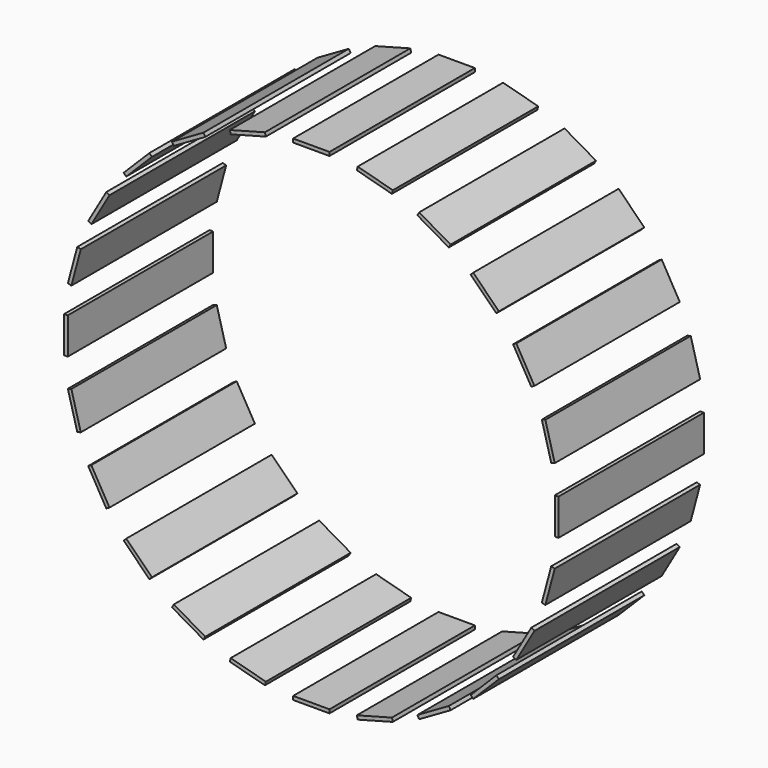
from build123d import *

# Parameters (mm, degrees)
F0_R      = 5
F1_DEPTH  = 50
F2_COUNT  = 24
F1_FACE_R = 5
F3_DEPTH  = 50


with BuildPart() as f1:
    # F0 (on Front) → F1 (new body)
    with BuildSketch(Plane.XZ):
        Polygon((-5, 67), (0, 67), (5, 67), (5, 68), (-5, 68), align=None)
        Circle(F0_R)
    extrude(amount=F1_DEPTH)


with BuildPart() as f2_1:
    # F2: instance of F1
    add(f1.part.rotate(Axis((0, 0, 0), (0, 1, 0)), 1 * 360 / F2_COUNT))


with BuildPart() as f2_2:
    # F2: instance of F1
    add(f1.part.rotate(Axis((0, 0, 0), (0, 1, 0)), 2 * 360 / F2_COUNT))


with BuildPart() as f2_3:
    # F2: instance of F1
    add(f1.part.rotate(Axis((0, 0, 0), (0, 1, 0)), 3 * 360 / F2_COUNT))


with BuildPart() as f2_4:
    # F2: instance of F1
    add(f1.part.rotate(Axis((0, 0, 0), (0, 1, 0)), 4 * 360 / F2_COUNT))


with BuildPart() as f2_5:
    # F2: instance of F1
    add(f1.part.rotate(Axis((0, 0, 0), (0, 1, 0)), 5 * 360 / F2_COUNT))


with BuildPart() as f2_6:
    # F2: instance of F1
    add(f1.part.rotate(Axis((0, 0, 0), (0, 1, 0)), 6 * 360 / F2_COUNT))


with BuildPart() as f2_7:
    # F2: instance of F1
    add(f1.part.rotate(Axis((0, 0, 0), (0, 1, 0)), 7 * 360 / F2_COUNT))


with BuildPart() as f2_8:
    # F2: instance of F1
    add(f1.part.rotate(Axis((0, 0, 0), (0, 1, 0)), 8 * 360 / F2_COUNT))


with BuildPart() as f2_9:
    # F2: instance of F1
    add(f1.part.rotate(Axis((0, 0, 0), (0, 1, 0)), 9 * 360 / F2_COUNT))


with BuildPart() as f2_10:
    # F2: instance of F1
    add(f1.part.rotate(Axis((0, 0, 0), (0, 1, 0)), 10 * 360 / F2_COUNT))


with BuildPart() as f2_11:
    # F2: instance of F1
    add(f1.part.rotate(Axis((0, 0, 0), (0, 1, 0)), 11 * 360 / F2_COUNT))


with BuildPart() as f2_12:
    # F2: instance of F1
    add(f1.part.rotate(Axis((0, 0, 0), (0, 1, 0)), 12 * 360 / F2_COUNT))


with BuildPart() as f2_13:
    # F2: instance of F1
    add(f1.part.rotate(Axis((0, 0, 0), (0, 1, 0)), 13 * 360 / F2_COUNT))


with BuildPart() as f2_14:
    # F2: instance of F1
    add(f1.part.rotate(Axis((0, 0, 0), (0, 1, 0)), 14 * 360 / F2_COUNT))


with BuildPart() as f2_15:
    # F2: instance of F1
    add(f1.part.rotate(Axis((0, 0, 0), (0, 1, 0)), 15 * 360 / F2_COUNT))


with BuildPart() as f2_16:
    # F2: instance of F1
    add(f1.part.rotate(Axis((0, 0, 0), (0, 1, 0)), 16 * 360 / F2_COUNT))


with BuildPart() as f2_17:
    # F2: instance of F1
    add(f1.part.rotate(Axis((0, 0, 0), (0, 1, 0)), 17 * 360 / F2_COUNT))


with BuildPart() as f2_18:
    # F2: instance of F1
    add(f1.part.rotate(Axis((0, 0, 0), (0, 1, 0)), 18 * 360 / F2_COUNT))


with BuildPart() as f2_19:
    # F2: instance of F1
    add(f1.part.rotate(Axis((0, 0, 0), (0, 1, 0)), 19 * 360 / F2_COUNT))


with BuildPart() as f2_20:
    # F2: instance of F1
    add(f1.part.rotate(Axis((0, 0, 0), (0, 1, 0)), 20 * 360 / F2_COUNT))


with BuildPart() as f2_21:
    # F2: instance of F1
    add(f1.part.rotate(Axis((0, 0, 0), (0, 1, 0)), 21 * 360 / F2_COUNT))


with BuildPart() as f2_22:
    # F2: instance of F1
    add(f1.part.rotate(Axis((0, 0, 0), (0, 1, 0)), 22 * 360 / F2_COUNT))


with BuildPart() as f2_23:
    # F2: instance of F1
    add(f1.part.rotate(Axis((0, 0, 0), (0, 1, 0)), 23 * 360 / F2_COUNT))


with BuildPart() as f3_tool:
    # F1_face (on face) → F3 (new body)
    with BuildSketch(Plane.XZ.offset(50)):
        Circle(F1_FACE_R)
    extrude(amount=-F3_DEPTH)


with BuildPart() as f1_1:
    add(f1.part)

    # F3: cut by f3_tool
    add(f3_tool.part, mode=Mode.SUBTRACT)


with BuildPart() as f2_1_1:
    add(f2_1.part)

    # F3: cut by f3_tool
    add(f3_tool.part, mode=Mode.SUBTRACT)


with BuildPart() as f2_2_1:
    add(f2_2.part)

    # F3: cut by f3_tool
    add(f3_tool.part, mode=Mode.SUBTRACT)


with BuildPart() as f2_3_1:
    add(f2_3.part)

    # F3: cut by f3_tool
    add(f3_tool.part, mode=Mode.SUBTRACT)


with BuildPart() as f2_4_1:
    add(f2_4.part)

    # F3: cut by f3_tool
    add(f3_tool.part, mode=Mode.SUBTRACT)


with BuildPart() as f2_5_1:
    add(f2_5.part)

    # F3: cut by f3_tool
    add(f3_tool.part, mode=Mode.SUBTRACT)


with BuildPart() as f2_6_1:
    add(f2_6.part)

    # F3: cut by f3_tool
    add(f3_tool.part, mode=Mode.SUBTRACT)


with BuildPart() as f2_7_1:
    add(f2_7.part)

    # F3: cut by f3_tool
    add(f3_tool.part, mode=Mode.SUBTRACT)


with BuildPart() as f2_8_1:
    add(f2_8.part)

    # F3: cut by f3_tool
    add(f3_tool.part, mode=Mode.SUBTRACT)


with BuildPart() as f2_9_1:
    add(f2_9.part)

    # F3: cut by f3_tool
    add(f3_tool.part, mode=Mode.SUBTRACT)


with BuildPart() as f2_10_1:
    add(f2_10.part)

    # F3: cut by f3_tool
    add(f3_tool.part, mode=Mode.SUBTRACT)


with BuildPart() as f2_11_1:
    add(f2_11.part)

    # F3: cut by f3_tool
    add(f3_tool.part, mode=Mode.SUBTRACT)


with BuildPart() as f2_12_1:
    add(f2_12.part)

    # F3: cut by f3_tool
    add(f3_tool.part, mode=Mode.SUBTRACT)


with BuildPart() as f2_13_1:
    add(f2_13.part)

    # F3: cut by f3_tool
    add(f3_tool.part, mode=Mode.SUBTRACT)


with BuildPart() as f2_14_1:
    add(f2_14.part)

    # F3: cut by f3_tool
    add(f3_tool.part, mode=Mode.SUBTRACT)


with BuildPart() as f2_15_1:
    add(f2_15.part)

    # F3: cut by f3_tool
    add(f3_tool.part, mode=Mode.SUBTRACT)


with BuildPart() as f2_16_1:
    add(f2_16.part)

    # F3: cut by f3_tool
    add(f3_tool.part, mode=Mode.SUBTRACT)


with BuildPart() as f2_17_1:
    add(f2_17.part)

    # F3: cut by f3_tool
    add(f3_tool.part, mode=Mode.SUBTRACT)


with BuildPart() as f2_18_1:
    add(f2_18.part)

    # F3: cut by f3_tool
    add(f3_tool.part, mode=Mode.SUBTRACT)


with BuildPart() as f2_19_1:
    add(f2_19.part)

    # F3: cut by f3_tool
    add(f3_tool.part, mode=Mode.SUBTRACT)


with BuildPart() as f2_20_1:
    add(f2_20.part)

    # F3: cut by f3_tool
    add(f3_tool.part, mode=Mode.SUBTRACT)


with BuildPart() as f2_21_1:
    add(f2_21.part)

    # F3: cut by f3_tool
    add(f3_tool.part, mode=Mode.SUBTRACT)


with BuildPart() as f2_22_1:
    add(f2_22.part)

    # F3: cut by f3_tool
    add(f3_tool.part, mode=Mode.SUBTRACT)


with BuildPart() as f2_23_1:
    add(f2_23.part)

    # F3: cut by f3_tool
    add(f3_tool.part, mode=Mode.SUBTRACT)


solid = Compound([f1_1.part, f2_1_1.part, f2_2_1.part, f2_3_1.part, f2_4_1.part, f2_5_1.part, f2_6_1.part, f2_7_1.part, f2_8_1.part, f2_9_1.part, f2_10_1.part, f2_11_1.part, f2_12_1.part, f2_13_1.part, f2_14_1.part, f2_15_1.part, f2_16_1.part, f2_17_1.part, f2_18_1.part, f2_19_1.part, f2_20_1.part, f2_21_1.part, f2_22_1.part, f2_23_1.part])
